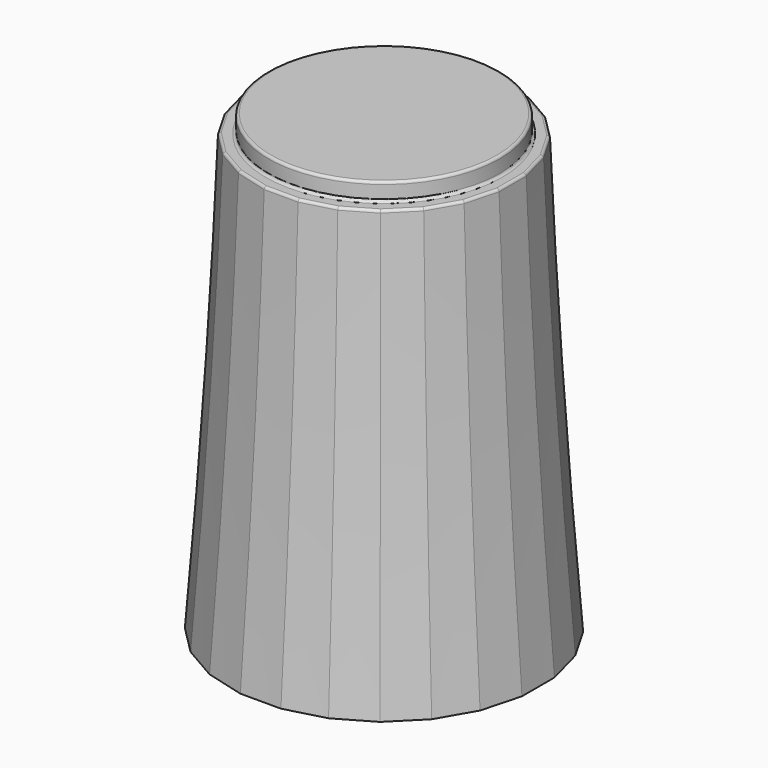
from build123d import *

# Parameters (mm, degrees)
SKETCH027_R     = 4.5
PAD006_DEPTH    = 0.7
SKETCH026_R     = 5
POCKET010_DEPTH = 1
SKETCH024_R     = 4.65
POCKET009_DEPTH = 1
POCKET011_DEPTH = 8
CHAMFER007_SIZE = 1.4
CHAMFER006_SIZE = 0.3
FILLET003_R     = 0.1


with BuildPart() as part:
    # Sketch029 → AdditiveLoft003 section 0
    with BuildSketch(Plane.XY):
        Polygon((-0.789915, 6), (-2.315914, 5.59111), (-3.684086, 4.801195), (-4.801195, 3.684086), (-5.59111, 2.315914), (-6, 0.789915), (-6, -0.789915), (-5.59111, -2.315914), (-4.801195, -3.684086), (-3.684086, -4.801195), (-2.315914, -5.59111), (-0.789915, -6), (0.789915, -6), (2.315914, -5.59111), (3.684086, -4.801195), (4.801195, -3.684086), (5.59111, -2.315914), (6, -0.789915), (6, 0.789915), (5.59111, 2.315914), (4.801195, 3.684086), (3.684086, 4.801195), (2.315914, 5.59111), (0.789915, 6), align=None)
    # Sketch028 → AdditiveLoft003 section 1
    with BuildSketch(Plane.XY.offset(7)):
        Polygon((-0.724089, 5.5), (-2.122921, 5.125184), (-3.377079, 4.401095), (-4.401095, 3.377079), (-5.125184, 2.122921), (-5.5, 0.724089), (-5.5, -0.724089), (-5.125184, -2.122921), (-4.401095, -3.377079), (-3.377079, -4.401095), (-2.122921, -5.125184), (-0.724089, -5.5), (0.724089, -5.5), (2.122921, -5.125184), (3.377079, -4.401095), (4.401095, -3.377079), (5.125184, -2.122921), (5.5, -0.724089), (5.5, 0.724089), (5.125184, 2.122921), (4.401095, 3.377079), (3.377079, 4.401095), (2.122921, 5.125184), (0.724089, 5.5), align=None)
    # Sketch030 → AdditiveLoft003 section 2
    with BuildSketch(Plane.XY.offset(17)):
        Polygon((-4.659258, 1.929928), (-5, 0.658262), (-5, -0.658262), (-4.659258, -1.929928), (-4.000996, -3.070072), (-3.070072, -4.000996), (-1.929928, -4.659258), (-0.658262, -5), (0.658262, -5), (1.929928, -4.659258), (3.070072, -4.000996), (4.000996, -3.070072), (4.659258, -1.929928), (5, -0.658262), (5, 0.658262), (4.659258, 1.929928), (4.000996, 3.070072), (3.070072, 4.000996), (1.929928, 4.659258), (0.658262, 5), (-0.658262, 5), (-1.929928, 4.659258), (-3.070072, 4.000996), (-4.000996, 3.070072), align=None)
    loft()

    # Sketch027 (on Face3 of AdditiveLoft003) → Pad006 (new body)
    with BuildSketch(Plane.XY.offset(17)):
        Circle(SKETCH027_R)
    extrude(amount=PAD006_DEPTH)

    # Sketch026 (on Face1 of Pad006) → Pocket010 (cut)
    with BuildSketch(Plane(origin=(0, 0, 0), x_dir=(1, 0, 0), z_dir=(0, 0, -1))):
        Circle(SKETCH026_R)
    extrude(amount=-POCKET010_DEPTH, mode=Mode.SUBTRACT)

    # Sketch024 (on Face28 of Pocket010) → Pocket009 (cut)
    with BuildSketch(Plane(origin=(0, 0, 1), x_dir=(1, 0, 0), z_dir=(0, 0, -1))):
        Circle(SKETCH024_R)
    extrude(amount=-POCKET009_DEPTH, mode=Mode.SUBTRACT)

    # Sketch025 (on Face32 of Pocket009) → Pocket011 (cut)
    with BuildSketch(Plane(origin=(0, 0, 2), x_dir=(1, 0, 0), z_dir=(0, 0, -1))):
        with BuildLine():
            ThreePointArc((-1.741757, 2.442598), (0, -3), (1.741757, 2.442598))
            Line((-1.741757, 2.442598), (1.741757, 2.442598))
        make_face()
    extrude(amount=-POCKET011_DEPTH, mode=Mode.SUBTRACT)

    # Chamfer007
    chamfer007_edges = [part.edges().sort_by_distance(p)[0] for p in [
        (0, 3, 2),
        (0, -2.442598, 2),
    ]]
    chamfer(chamfer007_edges, length=CHAMFER007_SIZE)

    # Chamfer006
    chamfer006_edges = [part.edges().sort_by_distance(p)[0] for p in [
        (-4.65, 0, 1),
    ]]
    chamfer(chamfer006_edges, length=CHAMFER006_SIZE)

    # Fillet003
    fillet003_edges = [part.edges().sort_by_distance(p)[0] for p in [
        (-4.5, 0, 17.7),
        (-4.829629, 1.294095, 17),
        (-4.330127, 2.5, 17),
        (-5, 0, 17),
        (-3.535534, 3.535534, 17),
        (-4.829629, -1.294095, 17),
        (-2.5, 4.330127, 17),
        (-4.330127, -2.5, 17),
        (-1.294095, 4.829629, 17),
        (-3.535534, -3.535534, 17),
        (0, 5, 17),
        (-2.5, -4.330127, 17),
        (1.294095, 4.829629, 17),
        (-1.294095, -4.829629, 17),
        (2.5, 4.330127, 17),
        (0, -5, 17),
        (3.535534, 3.535534, 17),
        (1.294095, -4.829629, 17),
        (4.330127, 2.5, 17),
        (2.5, -4.330127, 17),
        (4.829629, 1.294095, 17),
        (3.535534, -3.535534, 17),
        (5, 0, 17),
        (4.330127, -2.5, 17),
        (4.829629, -1.294095, 17),
        (-4.5, 0, 17),
    ]]
    fillet(fillet003_edges, radius=FILLET003_R)


solid = part.part
